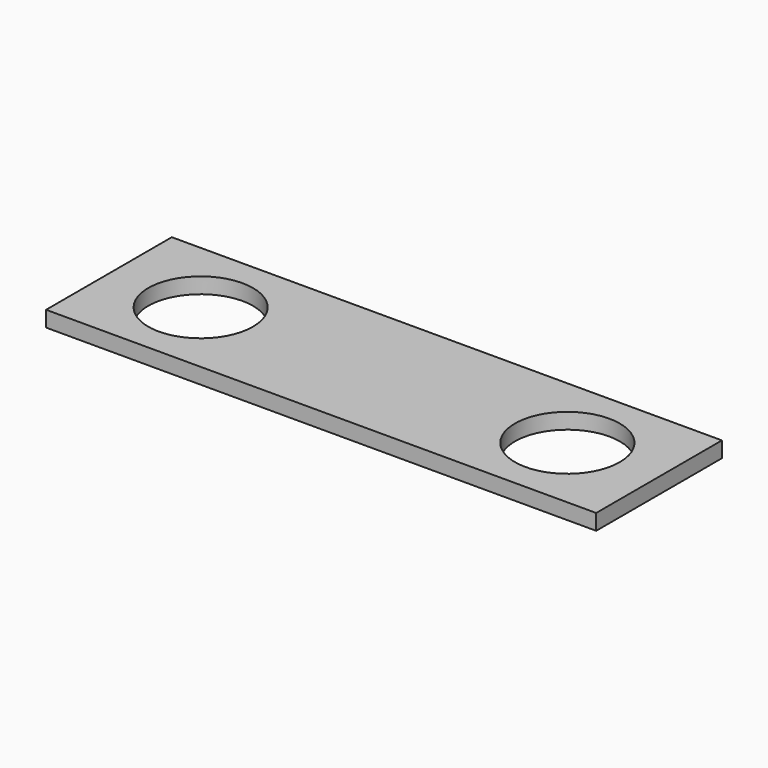
from build123d import *

# Parameters (mm, degrees)
SKETCH_W  = 420
SKETCH_H  = 120
SKETCH_R  = 40
PAD_DEPTH = 12


with BuildPart() as part:
    # Sketch → Pad (new body)
    with BuildSketch(Plane.XY):
        with Locations((210, -60)):
            Rectangle(SKETCH_W, SKETCH_H)
        with Locations((70, -60)):
            Circle(SKETCH_R, mode=Mode.SUBTRACT)
        with Locations((350, -60)):
            Circle(SKETCH_R, mode=Mode.SUBTRACT)
    extrude(amount=PAD_DEPTH)


solid = part.part
